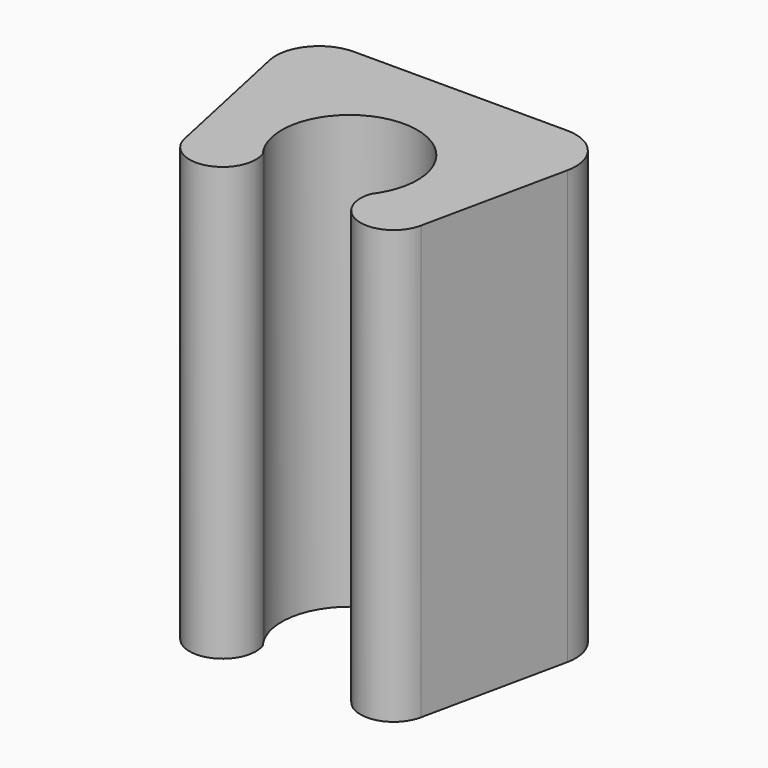
from build123d import *

# Parameters (mm, degrees)
F1_DEPTH = 30


with BuildPart() as f1:
    # F0 (on Top) → F1 (new body)
    with BuildSketch(Plane.XY):
        with BuildLine():
            ThreePointArc((3.752684, -4.721397), (5.320047, -7.70051), (8.180264, -5.925433))
            Line((8.180264, -5.925433), (10.322446, 4.071413))
            ThreePointArc((10.322446, 4.071413), (9.722037, 6.586033), (7.389038, 7.7))
            Line((7.389038, 7.7), (-7.389038, 7.7))
            ThreePointArc((-7.389038, 7.7), (-9.722037, 6.586033), (-10.322446, 4.071413))
            Line((-10.322446, 4.071413), (-8.180264, -5.925433))
            Line((-8.180264, -5.925433), (-8.164181, -6.000488))
            ThreePointArc((-8.164181, -6.000488), (-7.982367, -6.506508), (-7.688034, -6.956488))
            ThreePointArc((-7.688034, -6.956488), (-4.787716, -7.481058), (-3.752684, -4.721397))
            ThreePointArc((-3.752684, -4.721397), (-4.017831, -4.328982), (-4.242095, -3.911851))
            ThreePointArc((-4.242095, -3.911851), (-4.247654, -3.905916), (-4.253234, -3.9))
            ThreePointArc((-4.253234, -3.9), (0, 2.8), (4.253234, -3.9))
            ThreePointArc((4.253234, -3.9), (4.247654, -3.905916), (4.242095, -3.911851))
            ThreePointArc((4.242095, -3.911851), (4.017831, -4.328982), (3.752684, -4.721397))
        make_face()
        with BuildLine():
            Line((-8.164181, -6.000488), (-8.180264, -5.925433))
            ThreePointArc((-8.180264, -5.925433), (-8.172536, -5.963027), (-8.164181, -6.000488))
        make_face()
        with BuildLine():
            ThreePointArc((-7.688034, -6.956488), (-7.982367, -6.506508), (-8.164181, -6.000488))
            ThreePointArc((-8.164181, -6.000488), (-7.986414, -6.508524), (-7.688034, -6.956488))
        make_face()
    extrude(amount=F1_DEPTH)


solid = f1.part
